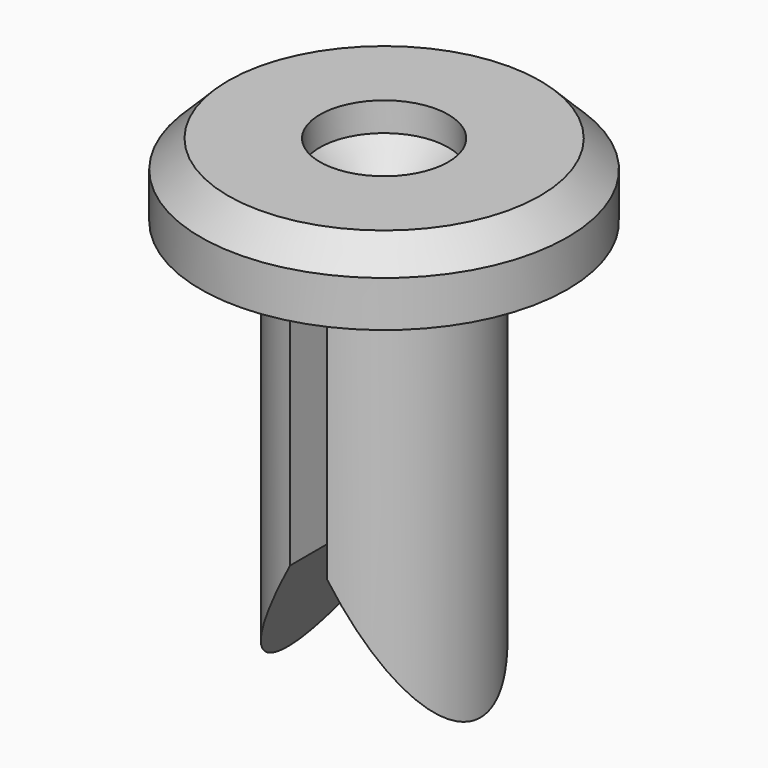
from build123d import *

# Parameters (mm, degrees)
SKETCH002_W  = 2
SKETCH002_H  = 25
PAD001_DEPTH = 15
PAD_DEPTH    = 7.5


with BuildPart() as pad001:
    # Sketch002 → Pad001 (new body, symmetric)
    with BuildSketch(Plane.XZ):
        with Locations((0, -13.5)):
            Rectangle(SKETCH002_W, SKETCH002_H)
    extrude(amount=PAD001_DEPTH, both=True)


with BuildPart() as pad:
    # Sketch001 → Pad (new body, symmetric)
    with BuildSketch(Plane.XZ):
        Polygon((8, -26.856406), (0, -13), (-8, -26.856406), align=None)
    extrude(amount=PAD_DEPTH, both=True)


with BuildPart() as cut002:
    # Sketch → Revolution (revolve)
    with BuildSketch(Plane.XZ):
        Polygon((3.5, 4), (8.5, 4), (10, 2.5), (10, 0), (5.25, 0), (5.25, -23), (1.8, -23), (1.8, 1), (3.5, 2.426469), align=None)
    revolve(axis=Axis((0, 0, 0), (0, 0, 1)))

    # Cut: cut Pad
    add(pad.part, mode=Mode.SUBTRACT)

    # Cut002: cut Pad001
    add(pad001.part, mode=Mode.SUBTRACT)


solid = cut002.part
